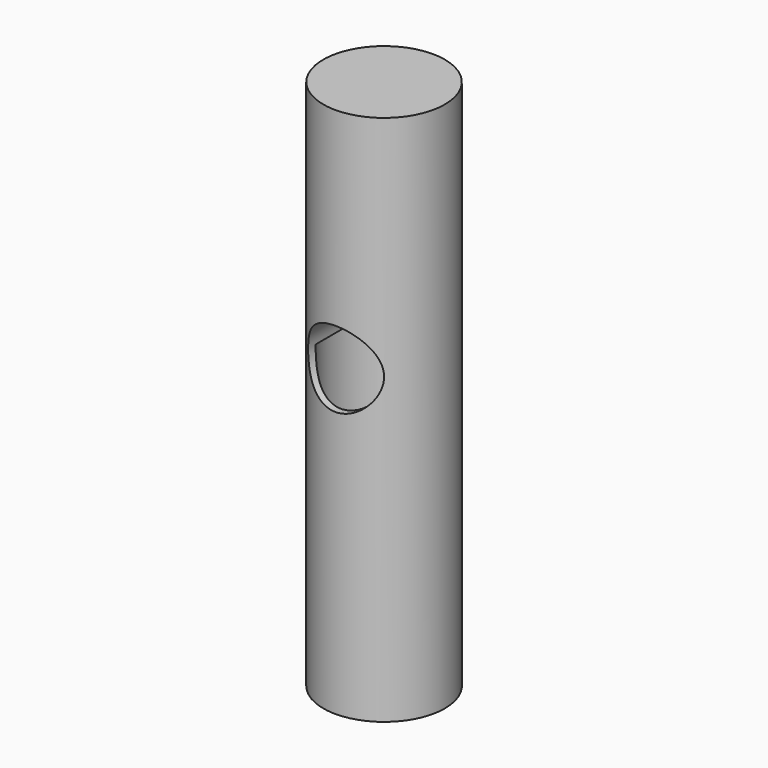
from build123d import *

# Parameters (mm, degrees)
F0_R     = 2.54
F1_DEPTH = 22.225
F5_D     = 3.175
F6_R     = 2.2479
F7_DEPTH = 12.7


with BuildPart() as f1:
    # F0 (on Top) → F1 (new body)
    with BuildSketch(Plane.XY):
        Circle(F0_R)
    extrude(amount=F1_DEPTH)

    # F5 (through all)
    with Locations(Plane.XZ.offset(2.54)):
        with Locations((0, 12.7)):
            Hole(F5_D / 2)

    # F6 (on face) → F7 (cut)
    with BuildSketch(Plane(origin=(0, 0, 0), x_dir=(1, 0, 0), z_dir=(0, 0, -1))):
        Circle(F6_R)
    extrude(amount=-F7_DEPTH, mode=Mode.SUBTRACT)


solid = f1.part
